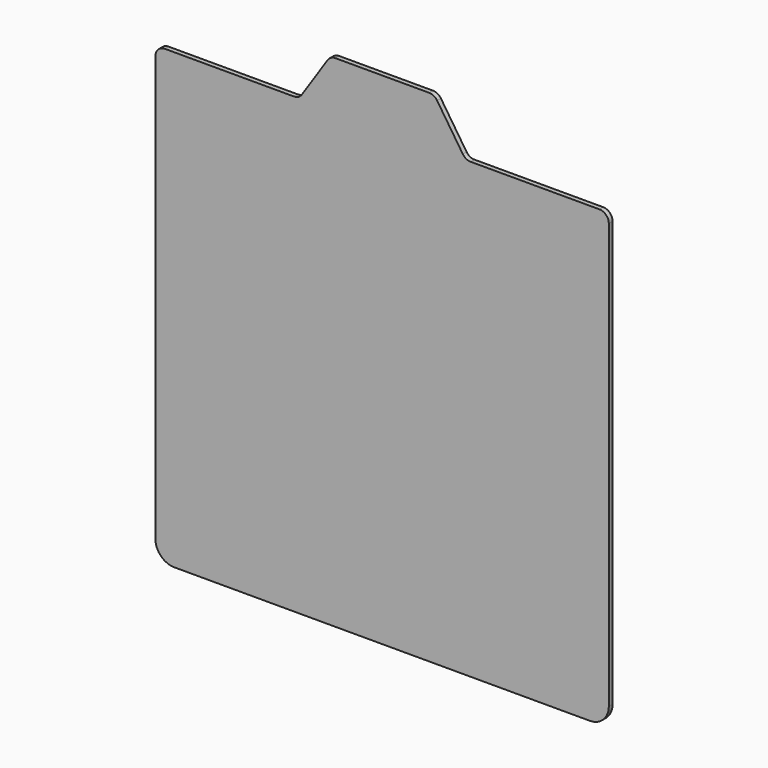
from build123d import *

# Parameters (mm, degrees)
F1_DEPTH = 1.5875
F2_R     = 6.35
F3_R     = 12.7


with BuildPart() as f1:
    # F0 (on Front) → F1 (new body, symmetric)
    with BuildSketch(Plane.XZ):
        Polygon((-55.833071, 152.4), (-152.4, 152.4), (-152.4, -152.4), (152.4, -152.4), (152.4, 152.4), (56.139176, 152.4), (35.078053, 184.149631), (-34.771947, 184.149631), align=None)
    extrude(amount=F1_DEPTH, both=True)

    # F2
    f2_edges = [f1.edges().sort_by_distance(p)[0] for p in [
        (152.4, 0, 152.4),
        (-152.4, 0, 152.4),
        (-55.833071, 0, 152.4),
        (-34.771947, 0, 184.149631),
        (35.078053, 0, 184.149631),
        (56.139176, 0, 152.4),
    ]]
    fillet(f2_edges, radius=F2_R)

    # F3
    f3_edges = [f1.edges().sort_by_distance(p)[0] for p in [
        (-152.4, 0, -152.4),
        (152.4, 0, -152.4),
    ]]
    fillet(f3_edges, radius=F3_R)


solid = f1.part
